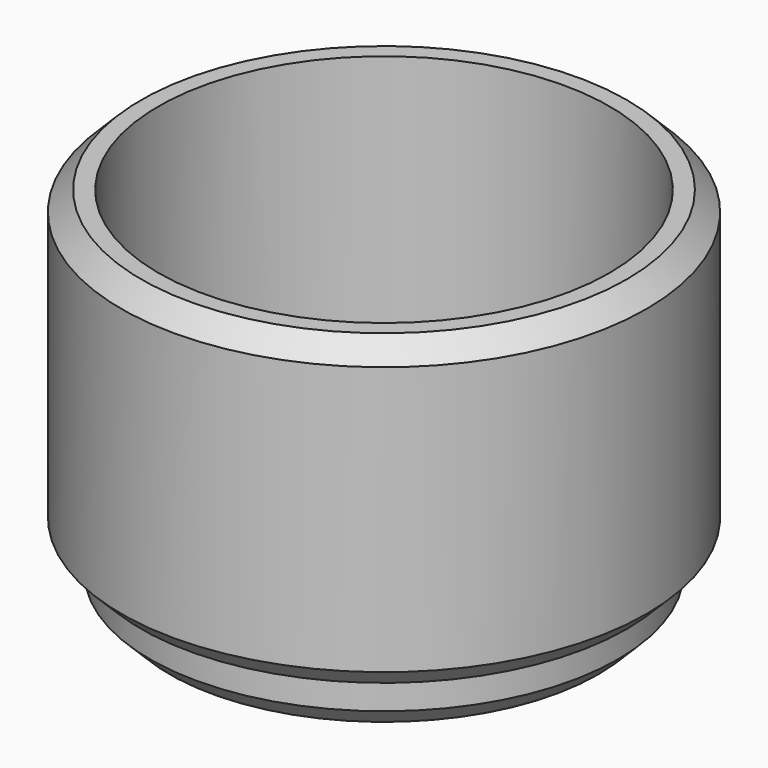
from build123d import *

# Parameters (mm, degrees)
F0_R     = 33.8455
F0_R_2   = 29.083
F1_DEPTH = 31.75
F0_R_3   = 25.273
F2_DEPTH = 7.9375
F3_R     = 30.1625
F3_R_2   = 25.4
F4_DEPTH = 6.35
F5_SIZE  = 2.54


with BuildPart() as f1:
    # F0 (on Top) → F1 (new body)
    with BuildSketch(Plane.XY):
        Circle(F0_R)
        Circle(F0_R_2, mode=Mode.SUBTRACT)
    extrude(amount=F1_DEPTH)

    # F0 (on Top) → F2 (join)
    with BuildSketch(Plane.XY):
        Circle(F0_R)
        Circle(F0_R_2, mode=Mode.SUBTRACT)
        Circle(F0_R_2)
        Circle(F0_R_3, mode=Mode.SUBTRACT)
    extrude(amount=-F2_DEPTH)

    # F3 (on face) → F4 (join)
    with BuildSketch(Plane(origin=(0, 0, -7.9375), x_dir=(1, 0, 0), z_dir=(0, 0, -1))):
        Circle(F3_R)
        Circle(F3_R_2, mode=Mode.SUBTRACT)
    extrude(amount=F4_DEPTH)

    # F5
    f5_edges = [f1.edges().sort_by_distance(p)[0] for p in [
        (-33.8455, 0, 31.75),
        (-33.8455, 0, -7.9375),
        (-30.1625, 0, -14.2875),
    ]]
    chamfer(f5_edges, length=F5_SIZE)


solid = f1.part
